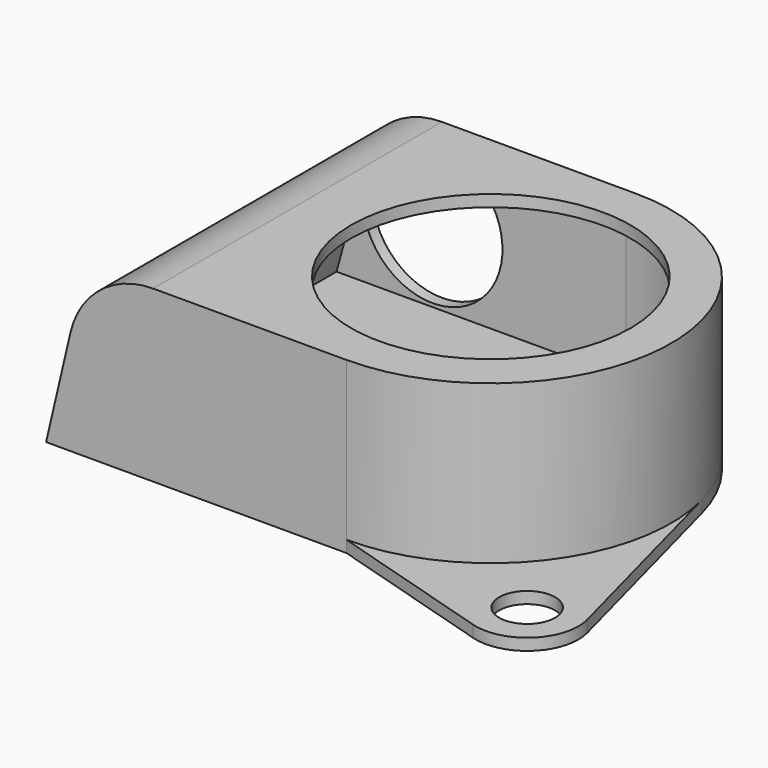
from build123d import *

# Parameters (mm, degrees)
F0_R      = 5
F0_R_2    = 1.2
F1_DEPTH  = 0.5
F3_START  = 0.5
F3_DEPTH  = 6.8
F4_R      = 3
F5_DEPTH  = 0.5
F6_R      = 2.25
F6_R_2    = 2
F7_DEPTH  = 0.5
F9_DEPTH  = 17.751
F10_W     = 1.7
F10_H     = 14.5
F11_DEPTH = 25
F13_DEPTH = 14.5
F14_R     = 6
F15_DEPTH = 0.5


with BuildPart() as f1:
    # F0 (on Top) → F1 (new body)
    with BuildSketch(Plane.XY):
        with BuildLine():
            Line((0, 7.75), (-12.9, 7.75))
            Line((-12.9, 7.75), (-12.9, -7.75))
            Line((-12.9, -7.75), (0, -7.75))
            ThreePointArc((0, -7.75), (6.1399336055, -4.729029004), (7.4931417039, 1.978718627))
            ThreePointArc((7.4931417039, 1.978718627), (4.729029004, 6.1399336055), (0, 7.75))
        make_face()
        Circle(F0_R, mode=Mode.SUBTRACT)
        with BuildLine():
            ThreePointArc((7.4931417039, 1.978718627), (6.1399336055, -4.729029004), (0, -7.75))
            Line((0, -7.75), (7.1659829396, -9.9066614268))
            ThreePointArc((7.1659829396, -9.9066614268), (9.3288402344, -9.3819758335), (9.9270853869, -7.2382992285))
            Line((9.9270853869, -7.2382992285), (7.4931417039, 1.978718627))
        make_face()
        with Locations((7.8, -7.8)):
            Circle(F0_R_2, mode=Mode.SUBTRACT)
    extrude(amount=F1_DEPTH)

    # F2 (on Top) → F3 (join)
    with BuildSketch(Plane.XY.offset(F3_START)):
        with BuildLine():
            Line((-12.929528847, 7.75), (-12.929528847, -7.75))
            Line((-12.929528847, -7.75), (0, -7.75))
            ThreePointArc((0, -7.75), (7.75, 0), (0, 7.75))
            Line((0, 7.75), (-12.929528847, 7.75))
        make_face()
        with BuildLine():
            Line((-12.4, -7.25), (-12.4, 7.25))
            Line((-12.4, 7.25), (0, 7.25))
            ThreePointArc((0, 7.25), (7.25, 0), (0, -7.25))
            Line((0, -7.25), (-12.4, -7.25))
        make_face(mode=Mode.SUBTRACT)
    extrude(amount=F3_DEPTH)

    # F4 (on face) → F5 (cut, through all)
    with BuildSketch(Plane(origin=(0, 7.75, 0), x_dir=(-1, 0, 0), z_dir=(0, 1, 0))):
        with Locations((8.3, 3.65)):
            Circle(F4_R)
    extrude(amount=-F5_DEPTH, mode=Mode.SUBTRACT)

    # F6 (on face) → F7 (join)
    with BuildSketch(Plane(origin=(0, -7.25, 0), x_dir=(-1, 0, 0), z_dir=(0, 1, 0))):
        with Locations((8.3, 3.65)):
            Circle(F6_R)
        with Locations((8.3, 3.65)):
            Circle(F6_R_2, mode=Mode.SUBTRACT)
    extrude(amount=F7_DEPTH)

    # F8 (on face) → F9 (cut, through all)
    with BuildSketch(Plane(origin=(0, 7.75, 0), x_dir=(-1, 0, 0), z_dir=(0, 1, 0))):
        with BuildLine():
            Line((15.2742294595, 7.3), (8.3, 7.3))
            ThreePointArc((8.3, 7.3), (10.5687485064, 6.509244693), (11.8544696585, 4.479605597))
            Line((11.8544696585, 4.479605597), (12.9, 0))
            Line((12.9, 0), (15.2742294595, 7.3))
        make_face()
    extrude(amount=-F9_DEPTH, mode=Mode.SUBTRACT)

    # F10 (on face) → F11 (cut)
    with BuildSketch(Plane.XY.offset(0.5)):
        with Locations((-12.05, 0)):
            Rectangle(F10_W, F10_H)
    extrude(amount=F11_DEPTH, mode=Mode.SUBTRACT)

    # F12 (on face) → F13 (join, through all)
    with BuildSketch(Plane.XZ.offset(-7.25)):
        with BuildLine():
            Line((-8.3, 6.8), (-8.3, 7.3))
            ThreePointArc((-8.3, 7.3), (-10.5687485064, 6.509244693), (-11.8544696585, 4.479605597))
            Line((-11.8544696585, 4.479605597), (-12.7833010721, 0.5))
            Line((-12.7833010721, 0.5), (-12.4252442315, 0.5))
            Line((-12.4252442315, 0.5), (-11.3387916272, 4.479605597))
            ThreePointArc((-11.3387916272, 4.479605597), (-10.2117063542, 6.1535732095), (-8.3, 6.8))
        make_face()
    extrude(amount=F13_DEPTH)

    # F14 (on face) → F15 (join)
    with BuildSketch(Plane.XY.offset(7.3)):
        with BuildLine():
            Line((0, 7.25), (-8.3, 7.25))
            Line((-8.3, 7.25), (-8.3, -7.25))
            Line((-8.3, -7.25), (0, -7.25))
            ThreePointArc((0, -7.25), (7.25, 0), (0, 7.25))
        make_face()
        Circle(F14_R, mode=Mode.SUBTRACT)
    extrude(amount=-F15_DEPTH)


solid = f1.part
